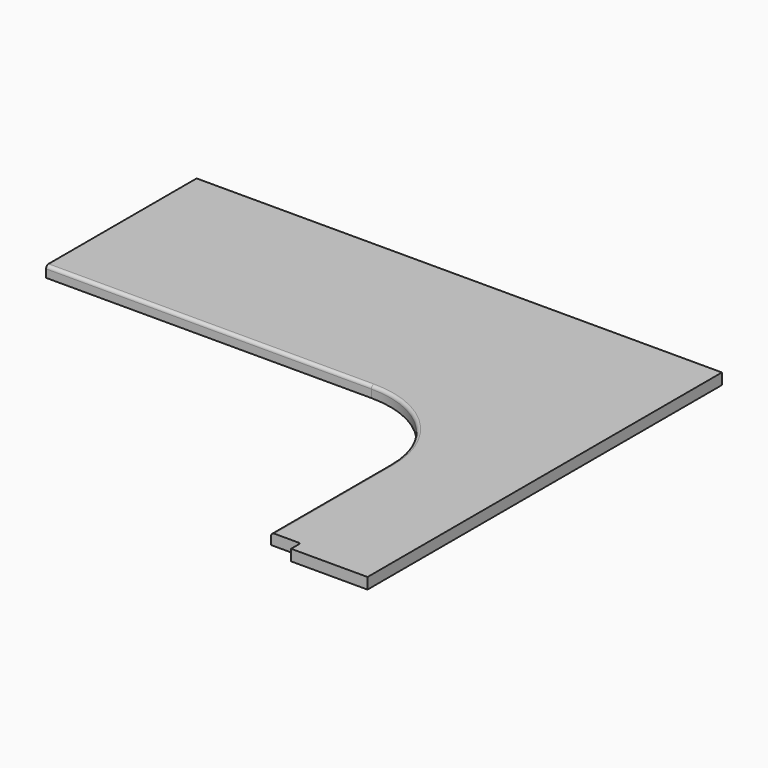
from build123d import *

# Parameters (mm, degrees)
F1_DEPTH = 17.9832
F2_R     = 152.4
F3_R     = 3.302
F4_R     = 5.08


with BuildPart() as f1:
    # F0 (on Top) → F1 (new body)
    with BuildSketch(Plane.XY):
        Polygon((-123.825, -698.5), (-123.825, -717.55), (0, -717.55), (0, 0), (-850.9, 0), (-850.9, -304.8), (-171.45, -304.8), (-171.45, -698.5), align=None)
    extrude(amount=F1_DEPTH)

    # F2
    f2_edges = [f1.edges().sort_by_distance(p)[0] for p in [
        (-171.45, -304.8, 8.9916),
    ]]
    fillet(f2_edges, radius=F2_R)

    # F3
    f3_edges = [f1.edges().sort_by_distance(p)[0] for p in [
        (-123.825, -698.5, 8.9916),
    ]]
    fillet(f3_edges, radius=F3_R)

    # F4
    f4_edges = [f1.edges().sort_by_distance(p)[0] for p in [
        (-171.45, -577.85, 17.9832),
    ]]
    fillet(f4_edges, radius=F4_R)


solid = f1.part
